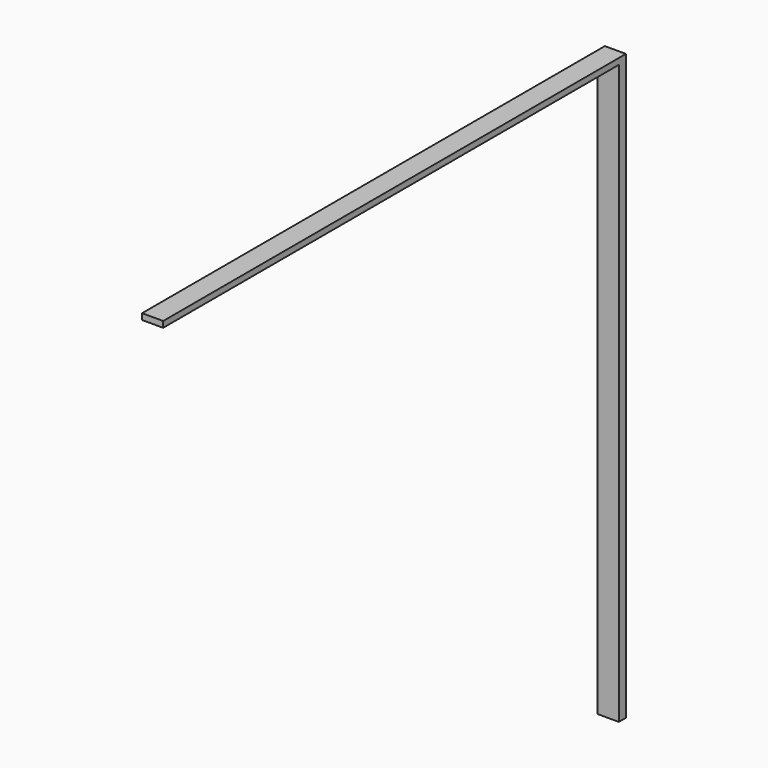
from build123d import *

# Parameters (mm, degrees)
F0_W     = 88.9
F0_H     = 25.4
F1_DEPTH = 2438.4
F2_W     = 88.9
F2_H     = 37.52058
F3_DEPTH = 2438.4


with BuildPart() as f1:
    # F0 (on Front) → F1 (new body)
    with BuildSketch(Plane.XZ):
        Rectangle(F0_W, F0_H)
    extrude(amount=F1_DEPTH)

    # F2 (on face) → F3 (join)
    with BuildSketch(Plane(origin=(0, 0, -12.7), x_dir=(1, 0, 0), z_dir=(0, 0, -1))):
        with Locations((0, 18.76029)):
            Rectangle(F2_W, F2_H)
    extrude(amount=F3_DEPTH)


solid = f1.part
